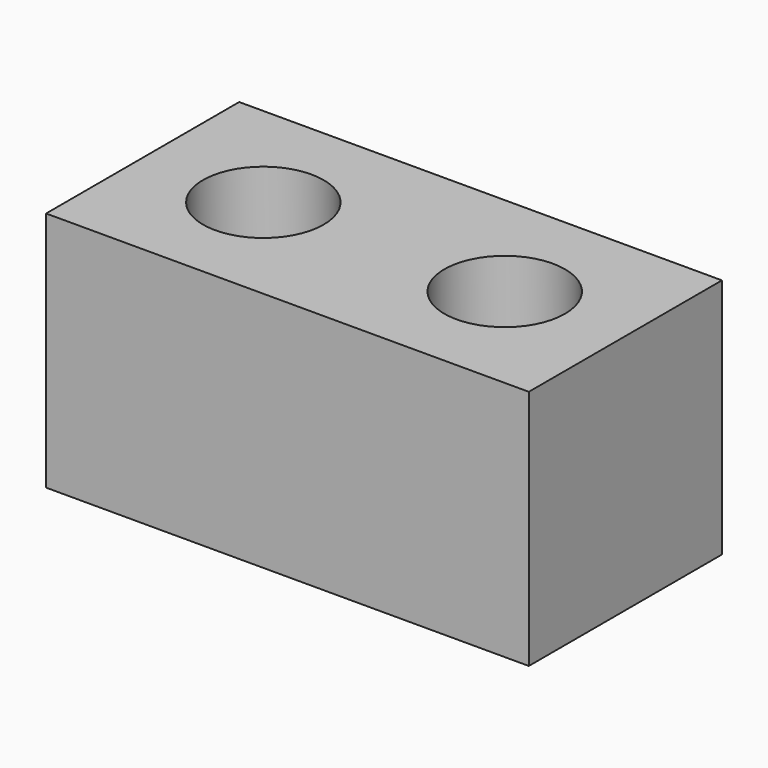
from build123d import *

# Parameters (mm, degrees)
F1_DEPTH = 600


with BuildPart() as f1:
    # F0 (on Top) → F1 (new body)
    with BuildSketch(Plane.XY):
        with BuildLine():
            ThreePointArc((150, 0), (300, 150), (450, 0))
            Line((450, 0), (600, 0))
            Line((600, 0), (600, 300))
            Line((600, 300), (-600, 300))
            Line((-600, 300), (-600, 0))
            Line((-600, 0), (-450, 0))
            ThreePointArc((-450, 0), (-300, 150), (-150, 0))
            Line((-150, 0), (0, 0))
            Line((0, 0), (150, 0))
        make_face()
        with BuildLine():
            Line((600, 0), (450, 0))
            ThreePointArc((450, 0), (300, -150), (150, 0))
            Line((150, 0), (0, 0))
            Line((0, 0), (-150, 0))
            ThreePointArc((-150, 0), (-300, -150), (-450, 0))
            Line((-450, 0), (-600, 0))
            Line((-600, 0), (-600, -300))
            Line((-600, -300), (600, -300))
            Line((600, -300), (600, 0))
        make_face()
    extrude(amount=F1_DEPTH)


solid = f1.part
